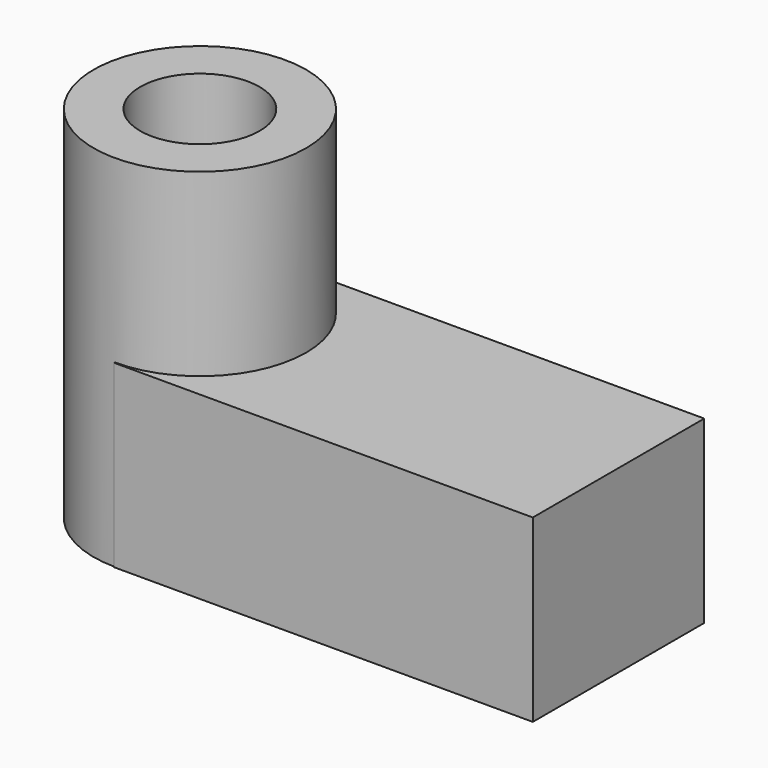
from build123d import *

# Parameters (mm, degrees)
F1_DEPTH = 25.4
F2_DEPTH = 50.8


with BuildPart() as f1:
    # F0 (on Top) → F1 (new body)
    with BuildSketch(Plane.XY):
        with BuildLine():
            Line((-29.5406132936, 8.4264525218), (-29.5406132936, 15.0022802835))
            ThreePointArc((-29.5406132936, 15.0022802835), (-44.5428935771, 0), (-29.5406132936, -15.0022802835))
            Line((-29.5406132936, -15.0022802835), (-29.5406132936, -8.4264525218))
            ThreePointArc((-29.5406132936, -8.4264525218), (-37.9670658155, 0), (-29.5406132936, 8.4264525218))
        make_face()
        with BuildLine():
            ThreePointArc((-14.5383330102, 0), (-18.9323991719, 10.6082141217), (-29.5406132936, 15.0022802835))
            Line((-29.5406132936, 15.0022802835), (-29.5406132936, 8.4264525218))
            ThreePointArc((-29.5406132936, 8.4264525218), (-23.5822115741, 5.9584017195), (-21.1141607718, 0))
            ThreePointArc((-21.1141607718, 0), (-23.5822115741, -5.9584017195), (-29.5406132936, -8.4264525218))
            Line((-29.5406132936, -8.4264525218), (-29.5406132936, -15.0022802835))
            ThreePointArc((-29.5406132936, -15.0022802835), (-18.9323991719, -10.6082141217), (-14.5383330102, 0))
        make_face()
        with BuildLine():
            Line((29.5406132936, 15.1207884774), (-29.5406132936, 15.1207884774))
            Line((-29.5406132936, 15.1207884774), (-29.5406132936, 15.0022802835))
            ThreePointArc((-29.5406132936, 15.0022802835), (-18.9323991719, 10.6082141217), (-14.5383330102, 0))
            ThreePointArc((-14.5383330102, 0), (-18.9323991719, -10.6082141217), (-29.5406132936, -15.0022802835))
            Line((-29.5406132936, -15.0022802835), (-29.5406132936, -15.1207884774))
            Line((-29.5406132936, -15.1207884774), (29.5406132936, -15.1207884774))
            Line((29.5406132936, -15.1207884774), (29.5406132936, 15.1207884774))
        make_face()
    extrude(amount=F1_DEPTH)

    # F0 (on Top) → F2 (join)
    with BuildSketch(Plane.XY):
        with BuildLine():
            ThreePointArc((-14.5383330102, 0), (-18.9323991719, 10.6082141217), (-29.5406132936, 15.0022802835))
            Line((-29.5406132936, 15.0022802835), (-29.5406132936, 8.4264525218))
            ThreePointArc((-29.5406132936, 8.4264525218), (-23.5822115741, 5.9584017195), (-21.1141607718, 0))
            ThreePointArc((-21.1141607718, 0), (-23.5822115741, -5.9584017195), (-29.5406132936, -8.4264525218))
            Line((-29.5406132936, -8.4264525218), (-29.5406132936, -15.0022802835))
            ThreePointArc((-29.5406132936, -15.0022802835), (-18.9323991719, -10.6082141217), (-14.5383330102, 0))
        make_face()
        with BuildLine():
            Line((-29.5406132936, 8.4264525218), (-29.5406132936, 15.0022802835))
            ThreePointArc((-29.5406132936, 15.0022802835), (-44.5428935771, 0), (-29.5406132936, -15.0022802835))
            Line((-29.5406132936, -15.0022802835), (-29.5406132936, -8.4264525218))
            ThreePointArc((-29.5406132936, -8.4264525218), (-37.9670658155, 0), (-29.5406132936, 8.4264525218))
        make_face()
    extrude(amount=F2_DEPTH)


solid = f1.part
